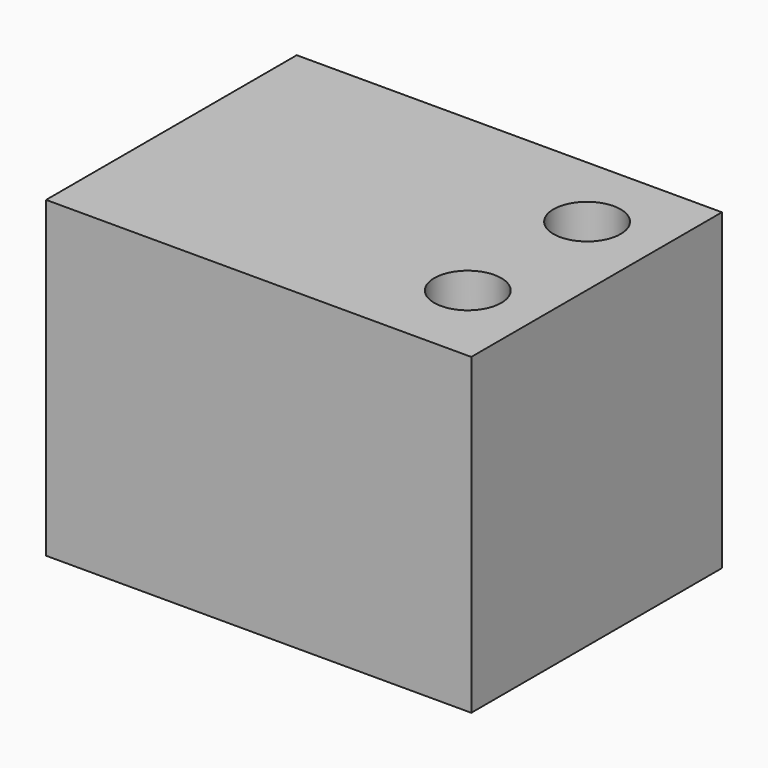
from build123d import *

# Parameters (mm, degrees)
F0_W     = 19
F0_H     = 14
F1_DEPTH = 14
F2_R     = 1.5
F3_DEPTH = 14


with BuildPart() as f1:
    # F0 (on Front) → F1 (new body)
    with BuildSketch(Plane.XZ):
        with Locations((-9.5, 7)):
            Rectangle(F0_W, F0_H)
    extrude(amount=F1_DEPTH)

    # F2 (on face) → F3 (cut)
    with BuildSketch(Plane.XY.offset(14)):
        with Locations((-3.231203, -3.493679)):
            Circle(F2_R)
        with Locations((-3.231203, -10.155302)):
            Circle(F2_R)
    extrude(amount=-F3_DEPTH, mode=Mode.SUBTRACT)


solid = f1.part
